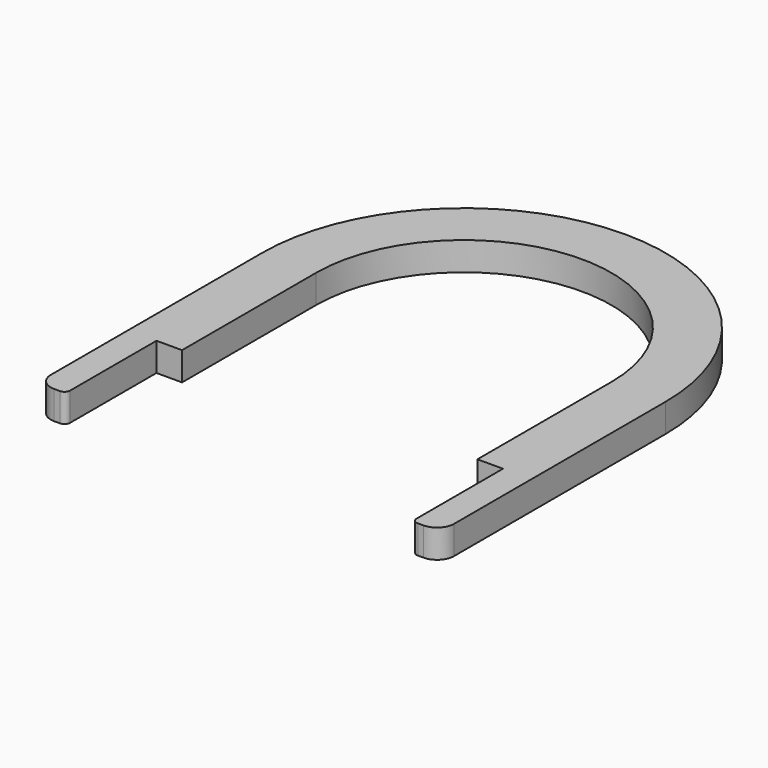
from build123d import *

# Parameters (mm, degrees)
F1_DEPTH = 6.35
F2_R     = 3.81
F3_R     = 1.27


with BuildPart() as f1:
    # F0 (on Top) → F1 (new body)
    with BuildSketch(Plane.XY):
        with BuildLine():
            Line((45.085, -62.865), (45.085, 0))
            ThreePointArc((45.085, 0), (0, 45.085), (-45.085, 0))
            Line((-45.085, 0), (-45.085, -62.865))
            Line((-45.085, -62.865), (-38.735, -62.865))
            Line((-38.735, -62.865), (-38.735, -37.465))
            Line((-38.735, -37.465), (-33.02, -37.465))
            Line((-33.02, -37.465), (-33.02, 0))
            ThreePointArc((-33.02, 0), (0, 33.02), (33.02, 0))
            Line((33.02, 0), (33.02, -37.465))
            Line((33.02, -37.465), (38.735, -37.465))
            Line((38.735, -37.465), (38.735, -62.865))
            Line((38.735, -62.865), (45.085, -62.865))
        make_face()
    extrude(amount=F1_DEPTH)

    # F2
    f2_edges = [f1.edges().sort_by_distance(p)[0] for p in [
        (-45.085, -62.865, 3.175),
        (45.085, -62.865, 3.175),
    ]]
    fillet(f2_edges, radius=F2_R)

    # F3
    f3_edges = [f1.edges().sort_by_distance(p)[0] for p in [
        (-38.735, -62.865, 3.175),
        (38.735, -62.865, 3.175),
    ]]
    fillet(f3_edges, radius=F3_R)


solid = f1.part
